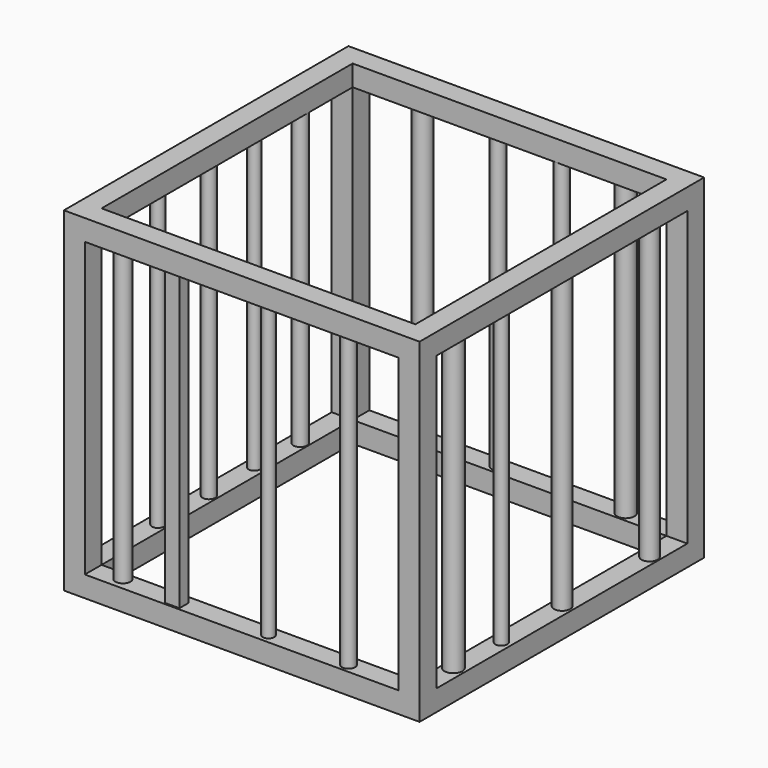
from build123d import *

# Parameters (mm, degrees)
F0_W      = 6.35
F0_H      = 6.35
F1_DEPTH  = 101.6
F2_W      = 6.35
F2_H      = 6.35
F3_DEPTH  = 101.6
F4_W      = 6.35
F4_H      = 6.35
F5_DEPTH  = 95.25
F6_W      = 6.35
F6_H      = 6.35
F7_DEPTH  = 99.822
F8_W      = 6.35
F8_H      = 6.35
F9_DEPTH  = 101.6
F10_W     = 6.35
F10_H     = 6.35
F11_DEPTH = 101.6
F12_W     = 6.35
F12_H     = 6.35
F13_DEPTH = 97.536
F14_W     = 6.35
F14_H     = 6.35
F15_DEPTH = 95.25
F16_W     = 6.35
F16_H     = 6.35
F17_DEPTH = 96.52
F18_W     = 6.35
F18_H     = 6.35
F19_DEPTH = 101.6
F20_W     = 6.35
F20_H     = 6.35
F21_DEPTH = 92.202
F22_W     = 6.35
F22_H     = 6.35
F23_DEPTH = 97.282
F25_R     = 2.462176
F28_DEPTH = 89.916
F26_R     = 2.454167
F29_DEPTH = 91.186
F30_R     = 2.719492
F31_DEPTH = 91.186
F27_R     = 1.799115
F32_DEPTH = 92.456
F36_R     = 2.278566
F35_W     = 4.342094
F35_H     = 3.394946
F33_R     = 2.005298
F34_R     = 1.740829
F37_DEPTH = 95.25
F24_R     = 2.104729
F38_R     = 1.742329
F39_R     = 1.924697
F39_R_2   = 1.834859
F40_DEPTH = 95.25
F41_R     = 2.666191
F42_R     = 1.946965
F43_R     = 2.600414
F43_R_2   = 1.988129
F44_DEPTH = 95.25


with BuildPart() as f1:
    # F0 (on Top) → F1 (new body)
    with BuildSketch(Plane.XY):
        with Locations((-49.143255, 53.25494)):
            Rectangle(F0_W, F0_H)
    extrude(amount=F1_DEPTH)

    # F2 (on face) → F3 (join)
    with BuildSketch(Plane.XZ.offset(-50.07994)):
        with Locations((-49.143255, 3.175)):
            Rectangle(F2_W, F2_H)
    extrude(amount=F3_DEPTH)

    # F4 (on face) → F5 (join)
    with BuildSketch(Plane.XY.offset(6.35)):
        with Locations((-49.143255, -48.34506)):
            Rectangle(F4_W, F4_H)
    extrude(amount=F5_DEPTH)

    # F6 (on face) → F7 (join)
    with BuildSketch(Plane.XZ.offset(-50.07994)):
        with Locations((-49.143255, 98.425)):
            Rectangle(F6_W, F6_H)
    extrude(amount=F7_DEPTH)

    # F8 (on face) → F9 (join)
    with BuildSketch(Plane.YZ.offset(-45.968255)):
        with Locations((53.25494, 3.175)):
            Rectangle(F8_W, F8_H)
    extrude(amount=F9_DEPTH)

    # F10 (on face) → F11 (join)
    with BuildSketch(Plane.YZ.offset(-45.968255)):
        with Locations((-48.34506, 3.175)):
            Rectangle(F10_W, F10_H)
        with Locations((-48.34506, 3.175)):
            Rectangle(F10_W, F10_H)
    extrude(amount=F11_DEPTH)

    # F12 (on face) → F13 (join)
    with BuildSketch(Plane.XZ.offset(-50.07994)):
        with Locations((52.456745, 3.175)):
            Rectangle(F12_W, F12_H)
    extrude(amount=F13_DEPTH)

    # F14 (on face) → F15 (join)
    with BuildSketch(Plane.XY.offset(6.35)):
        with Locations((52.456745, -48.34506)):
            Rectangle(F14_W, F14_H)
    extrude(amount=F15_DEPTH)

    # F16 (on face) → F17 (join)
    with BuildSketch(Plane(origin=(49.281745, 0, 0), x_dir=(0, -1, 0), z_dir=(-1, 0, 0))):
        with Locations((48.34506, 98.425)):
            Rectangle(F16_W, F16_H)
    extrude(amount=F17_DEPTH)

    # F18 (on face) → F19 (join)
    with BuildSketch(Plane.YZ.offset(-45.968255)):
        with Locations((53.25494, 98.425)):
            Rectangle(F18_W, F18_H)
    extrude(amount=F19_DEPTH)

    # F20 (on face) → F21 (join)
    with BuildSketch(Plane(origin=(0, 0, 95.25), x_dir=(1, 0, 0), z_dir=(0, 0, -1))):
        with Locations((52.456745, -53.25494)):
            Rectangle(F20_W, F20_H)
    extrude(amount=F21_DEPTH)

    # F22 (on face) → F23 (join)
    with BuildSketch(Plane(origin=(0, -45.17006, 0), x_dir=(-1, 0, 0), z_dir=(0, 1, 0))):
        with Locations((-52.456745, 98.425)):
            Rectangle(F22_W, F22_H)
    extrude(amount=F23_DEPTH)

    # F25 (on face) → F28 (join)
    with BuildSketch(Plane.XY.offset(6.35)):
        with Locations((52.8422, 39.234169)):
            Circle(F25_R)
    extrude(amount=F28_DEPTH)

    # F26 (on face) → F29 (join)
    with BuildSketch(Plane.XY.offset(6.35)):
        with Locations((52.487113, 6.482171)):
            Circle(F26_R)
    extrude(amount=F29_DEPTH)

    # F30 (on face) → F31 (join)
    with BuildSketch(Plane.XY.offset(6.35)):
        with Locations((52.195251, -34.391616)):
            Circle(F30_R)
    extrude(amount=F31_DEPTH)

    # F27 (on face) → F32 (join)
    with BuildSketch(Plane.XY.offset(6.35)):
        with Locations((52.82953, -17.009571)):
            Circle(F27_R)
    extrude(amount=F32_DEPTH)

    # F36 (on face) + F35 (on face) + F33 (on face) + F34 (on face) → F37 (join)
    with BuildSketch(Plane.XY.offset(6.35)):
        with Locations((-37.470926, -47.676794)):
            Circle(F36_R)
    with BuildSketch(Plane.XY.offset(6.35)):
        with Locations((-19.814698, -49.322378)):
            Rectangle(F35_W, F35_H)
    with BuildSketch(Plane.XY.offset(6.35)):
        with Locations((31.782679, -48.681542)):
            Circle(F33_R)
    with BuildSketch(Plane.XY.offset(6.35)):
        with Locations((7.43586, -48.585169)):
            Circle(F34_R)
    extrude(amount=F37_DEPTH)

    # F24 (on face) + F38 (on face) + F39 (on face) → F40 (join)
    with BuildSketch(Plane.XY.offset(6.35)):
        with Locations((-48.291616, 33.099722)):
            Circle(F24_R)
    with BuildSketch(Plane.XY.offset(6.35)):
        with Locations((-48.953682, 16.539522)):
            Circle(F38_R)
    with BuildSketch(Plane.XY.offset(6.35)):
        with Locations((-48.339192, -1.503361)):
            Circle(F39_R)
        with Locations((-48.496198, -20.61478)):
            Circle(F39_R_2)
    extrude(amount=F40_DEPTH)

    # F41 (on face) + F42 (on face) + F43 (on face) → F44 (join)
    with BuildSketch(Plane.XY.offset(6.35)):
        with Locations((34.443427, 53.185832)):
            Circle(F41_R)
    with BuildSketch(Plane.XY.offset(6.35)):
        with Locations((15.748598, 52.282806)):
            Circle(F42_R)
    with BuildSketch(Plane.XY.offset(6.35)):
        with Locations((-27.372204, 53.411223)):
            Circle(F43_R)
        with Locations((-4.064131, 52.890539)):
            Circle(F43_R_2)
    extrude(amount=F44_DEPTH)


solid = f1.part
